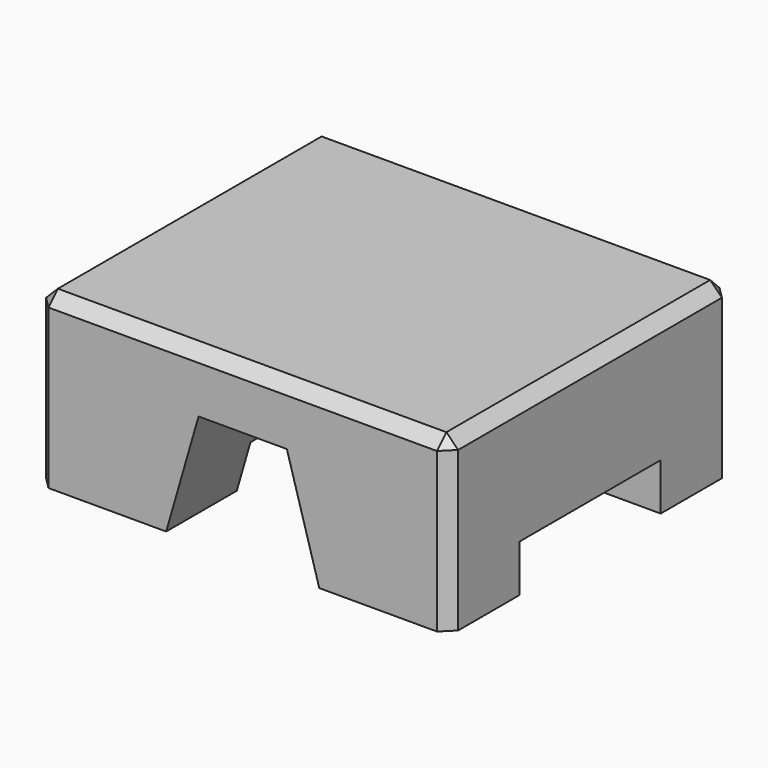
from build123d import *

# Parameters (mm, degrees)
F1_DEPTH = 600
F2_W     = 760
F2_H     = 300
F3_DEPTH = 80
F4_W     = 150
F4_H     = 440
F5_DEPTH = 20
F6_SIZE  = 20
F7_R     = 15


with BuildPart() as f1:
    # F0 (on Front) → F1 (new body)
    with BuildSketch(Plane.XZ):
        Polygon((-220, 0), (0, 0), (0, 290), (-700, 290), (-700, 0), (-480, 0), (-425, 190), (-275, 190), align=None)
    extrude(amount=F1_DEPTH)

    # F2 (on face) → F3 (cut)
    with BuildSketch(Plane(origin=(0, 0, 0), x_dir=(1, 0, 0), z_dir=(0, 0, -1))):
        with Locations((-350, 300)):
            Rectangle(F2_W, F2_H)
    extrude(amount=-F3_DEPTH, mode=Mode.SUBTRACT)

    # F4 (on face) → F5 (cut)
    with BuildSketch(Plane(origin=(0, 0, 190), x_dir=(1, 0, 0), z_dir=(0, 0, -1))):
        with Locations((-350, 300)):
            Rectangle(F4_W, F4_H)
    extrude(amount=-F5_DEPTH, mode=Mode.SUBTRACT)

    # F6
    f6_edges = [f1.edges().sort_by_distance(p)[0] for p in [
        (-700, 0, 145),
        (-700, -300, 290),
        (-350, 0, 290),
        (0, -300, 290),
        (-350, -600, 290),
        (-700, -600, 145),
        (0, -600, 145),
        (0, 0, 145),
    ]]
    chamfer(f6_edges, length=F6_SIZE)

    # F7
    f7_edges = [f1.edges().sort_by_distance(p)[0] for p in [
        (-425, -520, 200),
        (-275, -520, 200),
        (-425, -80, 200),
        (-275, -80, 200),
    ]]
    fillet(f7_edges, radius=F7_R)


solid = f1.part
